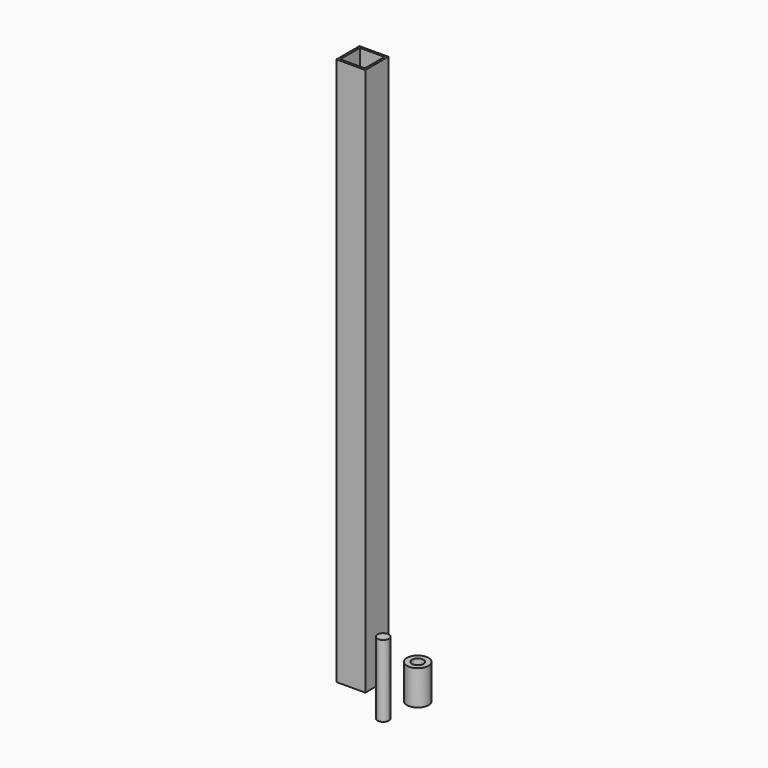
from build123d import *

# Parameters (mm, degrees)
F0_W     = 20
F0_H     = 20
F0_W_2   = 17
F0_H_2   = 17
F1_DEPTH = 380
F2_R     = 7.5
F2_R_2   = 4
F3_DEPTH = 24
F4_R     = 4
F5_DEPTH = 50


with BuildPart() as f1:
    # F0 (on Top) → F1 (new body)
    with BuildSketch(Plane.XY):
        Rectangle(F0_W, F0_H)
        Rectangle(F0_W_2, F0_H_2, mode=Mode.SUBTRACT)
    extrude(amount=F1_DEPTH)


with BuildPart() as f3:
    # F2 (on Top) → F3 (new body)
    with BuildSketch(Plane.XY):
        with Locations((38.365666, 0)):
            Circle(F2_R)
        with Locations((38.365666, 0)):
            Circle(F2_R_2, mode=Mode.SUBTRACT)
    extrude(amount=F3_DEPTH)


with BuildPart() as f5:
    # F4 (on Top) → F5 (new body)
    with BuildSketch(Plane.XY):
        with Locations((36.483213, -27.591713)):
            Circle(F4_R)
    extrude(amount=F5_DEPTH)


solid = Compound([f1.part, f3.part, f5.part])
